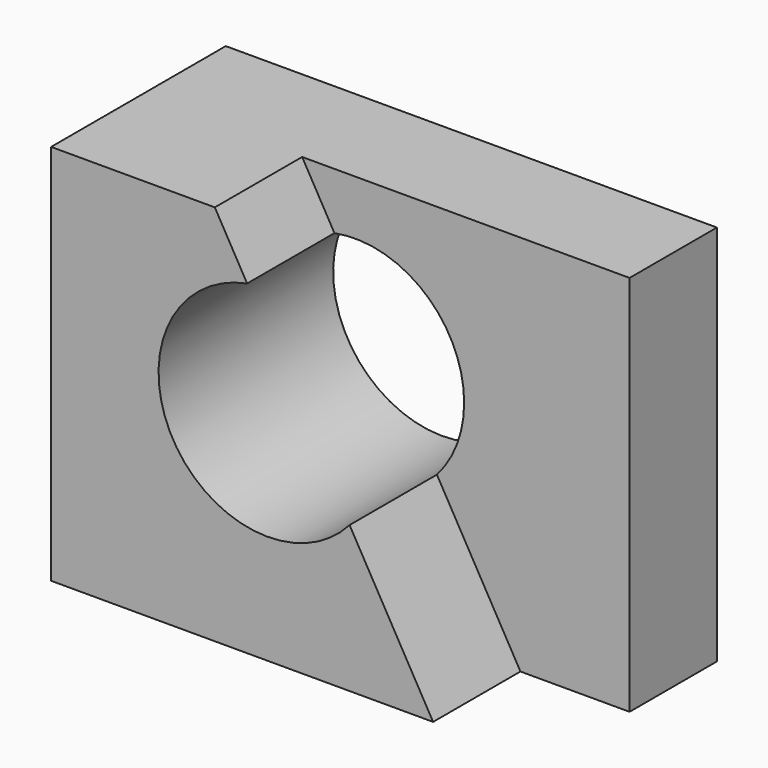
from build123d import *

# Parameters (mm, degrees)
F0_W     = 57.15
F0_H     = 44.45
F1_DEPTH = 12.7
F3_DEPTH = 12.7
F5_DEPTH = 25.4


with BuildPart() as f1:
    # F0 (on Front) → F1 (new body)
    with BuildSketch(Plane.XZ):
        with Locations((28.575, 22.225)):
            Rectangle(F0_W, F0_H)
    extrude(amount=F1_DEPTH)

    # F2 (on face) → F3 (join)
    with BuildSketch(Plane.XZ.offset(12.7)):
        Polygon((19.05, 44.45), (0, 44.45), (0, 0), (44.45, 0), align=None)
    extrude(amount=F3_DEPTH)

    # F4 (on face) → F5 (cut)
    with BuildSketch(Plane.XZ.offset(25.4)):
        with BuildLine():
            ThreePointArc((34.731897, 17.00668), (37.082178, 20.914199), (37.900781, 25.4))
            ThreePointArc((37.900781, 25.4), (33.291142, 35.18959), (22.808487, 37.872647))
            Line((22.808487, 37.872647), (34.731897, 17.00668))
        make_face()
        with BuildLine():
            Line((34.731897, 17.00668), (22.808487, 37.872647))
            ThreePointArc((22.808487, 37.872647), (14.174093, 19.099035), (34.731897, 17.00668))
        make_face()
    extrude(amount=-F5_DEPTH, mode=Mode.SUBTRACT)


solid = f1.part
